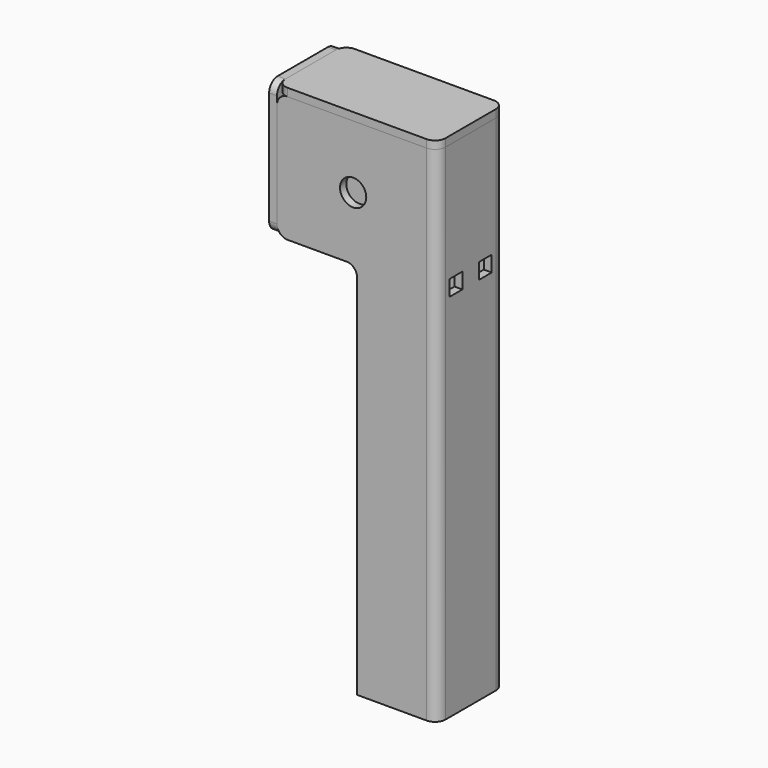
from build123d import *

# Parameters (mm, degrees)
F1_DEPTH  = 304.8
F2_W      = 9.525
F2_H      = 9.525
F3_DEPTH  = 96.8385
F4_W      = 106.9017795086
F4_H      = 228.6
F5_DEPTH  = 50.8
F6_W      = 96.8375
F6_H      = 50.8
F7_DEPTH  = 4.7625
F9_DEPTH  = 4.7625
F10_R     = 7.9375
F11_DEPTH = 50.8
F12_R     = 6.35
F12_2_R   = 6.35
F13_R     = 6.35
F14_R     = 1.5875


with BuildPart() as f1:
    # F0 (on Top) → F1 (new body)
    with BuildSketch(Plane.XY):
        Polygon((-46.0375, 25.4), (-46.0375, 20.6375), (46.0375, 20.6375), (46.0375, -20.6375), (-46.0375, -20.6375), (-46.0375, -25.4), (50.8, -25.4), (50.8, 25.4), align=None)
    extrude(amount=-F1_DEPTH)

    # F2 (on face) → F3 (cut, through all)
    with BuildSketch(Plane.YZ.offset(50.8)):
        with Locations((-11.1125, -76.2)):
            Rectangle(F2_W, F2_H)
        with Locations((11.1125, -76.2)):
            Rectangle(F2_W, F2_H)
    extrude(amount=-F3_DEPTH, mode=Mode.SUBTRACT)

    # F4 (on face) → F5 (cut)
    with BuildSketch(Plane.XZ.offset(25.4)):
        with Locations((-51.0696397543, -190.5)):
            Rectangle(F4_W, F4_H)
    extrude(amount=-F5_DEPTH, mode=Mode.SUBTRACT)

    # F10 (on face) → F11 (cut, through all)
    with BuildSketch(Plane.XZ.offset(25.4)):
        with Locations((0, -38.1)):
            Circle(F10_R)
    extrude(amount=-F11_DEPTH, mode=Mode.SUBTRACT)

    # F13
    f13_edges = [f1.edges().sort_by_distance(p)[0] for p in [
        (50.8, -25.4, -152.4),
        (50.8, 25.4, -152.4),
        (2.38125, 23.01875, -76.2),
        (2.38125, -23.01875, -76.2),
        (-46.0375, 23.01875, -76.2),
        (-46.0375, -23.01875, -76.2),
        (-46.0375, -23.01875, 0),
        (-46.0375, 23.01875, 0),
    ]]
    fillet(f13_edges, radius=F13_R)

    # F14
    f14_edges = [f1.edges().sort_by_distance(p)[0] for p in [
        (46.0375, 20.6375, -152.4),
        (46.0375, -20.6375, -152.4),
    ]]
    fillet(f14_edges, radius=F14_R)


with BuildPart() as f7:
    # F6 (on Top) → F7 (new body)
    with BuildSketch(Plane.XY):
        with Locations((2.38125, 0)):
            Rectangle(F6_W, F6_H)
    extrude(amount=F7_DEPTH)

    # F12#2
    f12_2_edges = [f7.edges().sort_by_distance(p)[0] for p in [
        (-46.0375, 25.4, 2.38125),
        (-46.0375, -25.4, 2.38125),
        (50.8, -25.4, 2.38125),
        (50.8, 25.4, 2.38125),
    ]]
    fillet(f12_2_edges, radius=F12_2_R)


with BuildPart() as f9:
    # F8 (on face) → F9 (new body)
    with BuildSketch(Plane(origin=(-46.0375, 0, 0), x_dir=(0, -1, 0), z_dir=(-1, 0, 0))):
        Polygon((-25.4, 0), (-25.4, -76.2), (25.4, -76.2), (25.4, 0), (25.4, 4.7625), (-25.4, 4.7625), align=None)
    extrude(amount=F9_DEPTH)

    # F12
    f12_edges = [f9.edges().sort_by_distance(p)[0] for p in [
        (-48.41875, -25.4, 4.7625),
        (-48.41875, 25.4, 4.7625),
        (-48.41875, -25.4, -76.2),
        (-48.41875, 25.4, -76.2),
    ]]
    fillet(f12_edges, radius=F12_R)


solid = Compound([f1.part, f7.part, f9.part])
